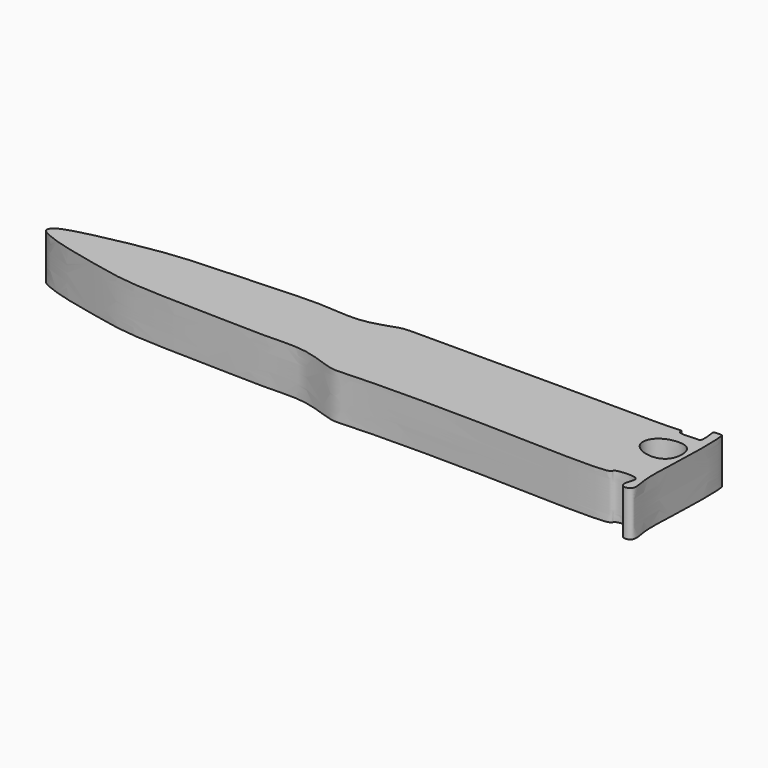
from build123d import *

# Parameters (mm, degrees)
F1_DEPTH = 5


with BuildPart() as f1:
    # F0 (on Top) → F1 (new body)
    with BuildSketch(Plane.XY):
        with BuildLine():
            add(Edge.make_bspline(
                [(-32.9590812325, 16.1476600915), (-34.199088168, 16.1578657504), (-36.5788992191, 16.2107316319), (-37.651691918, 15.8271437853), (-40.8856486621, 14.7057009545), (-44.8162744949, 15.3721927098), (-51.5370550178, 14.8961930986), (-59.1199319086, 14.7057136643), (-64.4615021192, 13.9386215596), (-70.8288112577, 12.5841539611), (-72.2269905512, 11.8287445608), (-72.4542869564, 11.0928518214), (-71.1614954471, 10.4508194346), (-68.8485868519, 9.7157600424), (-63.8973268602, 8.658808504), (-60.2845214462, 7.8869173092), (-50.3064593815, 7.7720988807), (-44.9857278108, 7.5423076202), (-40.6785325196, 7.8641093363), (-37.0709600589, 6.2752917202), (-35.3038185345, 6.4980444991), (-21.593232189, 6.7669024565), (-5.697449548, 5.9269310164), (-6.1987059659, 6.9361713058), (-3.3456908342, 7.1577048731), (-3.6160032059, 6.1724748422), (-4.0148987805, 4.8196354939), (-2.3372872316, 4.9195818286), (-3.0415132394, 7.2405946983), (-2.6685046634, 11.4147368171), (-2.6458787231, 17.8346218232), (-2.9888156353, 17.7253266933), (-3.8631645166, 17.7907441103), (-3.7059096125, 17.3444713878), (-3.5675923837, 15.7517435592), (-3.9780951088, 15.8174847947), (-4.3110737263, 15.8023674268), (-6.2612475399, 15.6390554788), (-5.9840987715, 16.2667254385), (-6.8272634165, 16.0694611841), (-15.4710714241, 16.1900056268), (-20.1212985688, 16.1474750726), (-29.1903995661, 16.1734205367), (-31.6690691488, 16.1370428741), (-32.9590812325, 16.1476600915)],
                knots=[0, 0, 0, 0, 0.0262985469, 0.0414452788, 0.0659323087, 0.0938495578, 0.1300738159, 0.1683409812, 0.2018532063, 0.2369108508, 0.2533686938, 0.263187193, 0.278203578, 0.3004805638, 0.3311438478, 0.3589916134, 0.4024861349, 0.4354598823, 0.4641462385, 0.490430278, 0.5078270222, 0.5612582114, 0.6146002837, 0.6220245984, 0.6428872991, 0.6544495962, 0.6692017585, 0.6822561798, 0.7007036943, 0.7320591676, 0.7654601186, 0.7711296652, 0.782951383, 0.7912397945, 0.8081503015, 0.8146215714, 0.8237181708, 0.8417234562, 0.8491272028, 0.8586102736, 0.8984911894, 0.9320309623, 0.9726409245, 1, 1, 1, 1], degree=3))
        make_face()
        with BuildLine():
            add(Edge.make_bspline(
                [(-6.8036732264, 13.7409586459), (-7.2646965605, 13.339865102), (-7.784480186, 12.1102076488), (-6.05366359, 10.636540942), (-3.2792599415, 10.9107718079), (-3.1319830815, 13.8943399684), (-4.8045489664, 14.5885826136), (-6.2792579071, 14.1972036629), (-6.8036732264, 13.7409586459)],
                knots=[0, 0, 0, 0, 0.1526535194, 0.3181701908, 0.4991057305, 0.6792085387, 0.8263561989, 1, 1, 1, 1], degree=3))
        make_face(mode=Mode.SUBTRACT)
    extrude(amount=F1_DEPTH)


solid = f1.part
